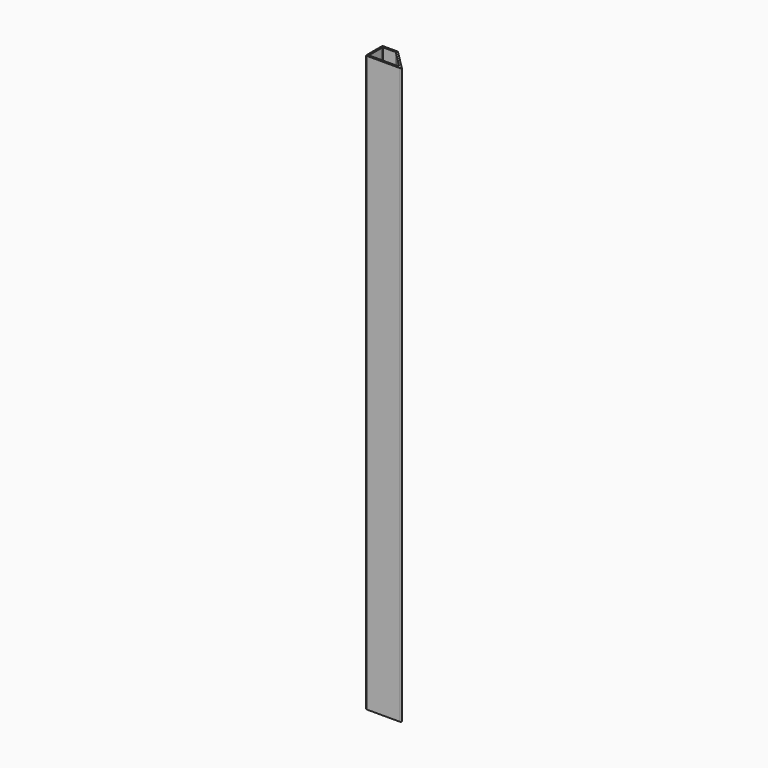
from build123d import *

# Parameters (mm, degrees)
F1_DEPTH = 1325


with BuildPart() as f1:
    # F0 (on Top) → F1 (new body)
    with BuildSketch(Plane.XY):
        with BuildLine():
            Line((-35.705528, 49.347393), (-67.291312, 49.347393))
            ThreePointArc((-67.291312, 49.347393), (-68.705525, 48.761607), (-69.291312, 47.347393))
            Line((-69.291312, 47.347393), (-69.291312, 3.347397))
            ThreePointArc((-69.291312, 3.347397), (-68.705525, 1.933183), (-67.291312, 1.347397))
            Line((-67.291312, 1.347397), (9.537109, 1.347397))
            ThreePointArc((9.537109, 1.347397), (11.384868, 2.58203), (10.951323, 4.76161))
            Line((10.951323, 4.76161), (-32.169994, 47.882927))
            ThreePointArc((-32.169994, 47.882927), (-33.792111, 48.966791), (-35.705528, 49.347393))
        make_face()
        with BuildLine():
            ThreePointArc((-65.291314, 44.347395), (-64.99842, 45.054502), (-64.291314, 45.347395))
            Line((-64.291314, 45.347395), (-36.119741, 45.347395))
            ThreePointArc((-36.119741, 45.347395), (-35.354374, 45.195154), (-34.705527, 44.761609))
            Line((-34.705527, 44.761609), (3.00158, 7.054502))
            ThreePointArc((3.00158, 7.054502), (3.218352, 5.964712), (2.294473, 5.347395))
            Line((2.294473, 5.347395), (-64.291314, 5.347395))
            ThreePointArc((-64.291314, 5.347395), (-64.99842, 5.640288), (-65.291314, 6.347395))
            Line((-65.291314, 6.347395), (-65.291314, 44.347395))
        make_face(mode=Mode.SUBTRACT)
    extrude(amount=-F1_DEPTH)


solid = f1.part
